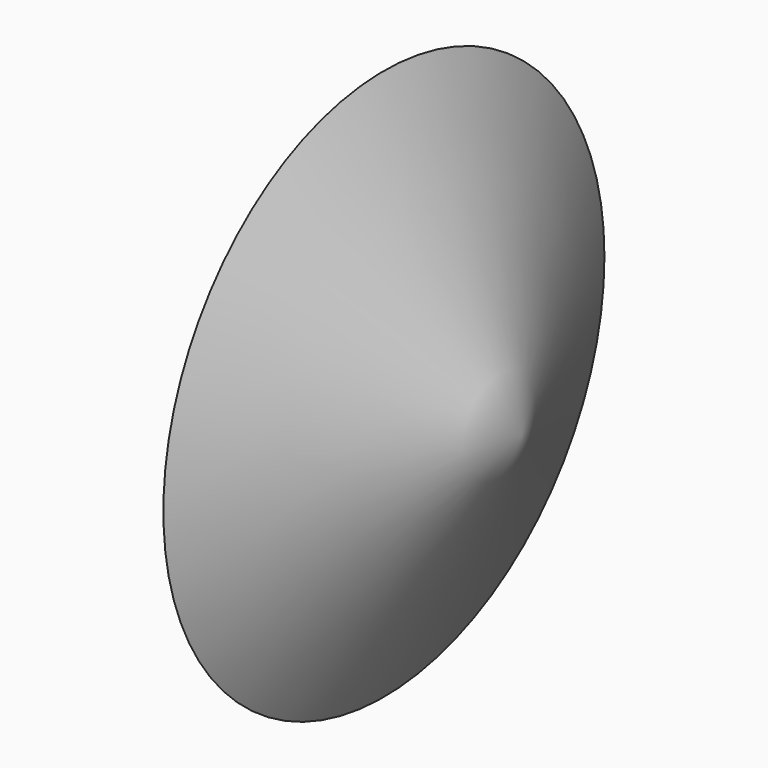
from build123d import *


with BuildPart() as f1:
    # F0 (on Top) → F1 (revolve)
    with BuildSketch(Plane.XY):
        Polygon((0, 25.4), (0, 0), (12.7, 0), align=None)
    revolve(axis=Axis((6.35, 0, 0), (1, 0, 0)))


solid = f1.part
